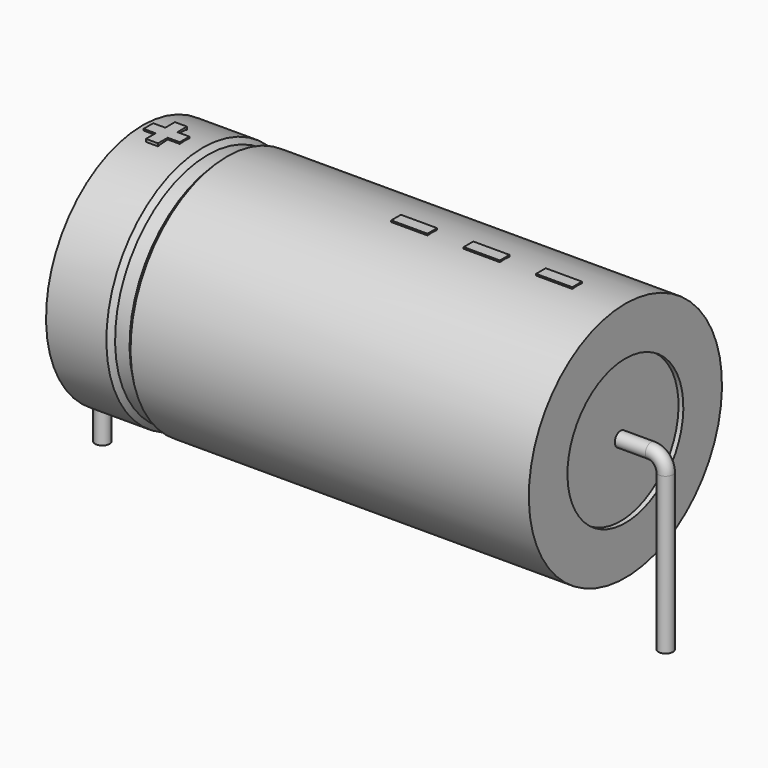
from build123d import *

# Parameters (mm, degrees)
SKETCH_R    = 0.45
SKETCH004_W = 2.25
SKETCH004_H = 0.75
PAD_DEPTH   = 7.575


with BuildPart() as sweep_body:
    # Sweep: sweep along a path in Sketch001
    with BuildLine(Plane.XZ) as sweep_path:
        Line((0, -3), (0, 6.7))
        ThreePointArc((0, 6.7), (0.263601, 7.336393), (0.899991, 7.6))
        Line((0.899991, 7.6), (34.1, 7.6))
        ThreePointArc((34.1, 7.6), (34.736396, 7.336396), (35, 6.7))
        Line((35, 6.7), (35, -3))
    # Sketch → Sweep (sweep)
    with BuildSketch(Plane.XY.offset(-2)):
        Circle(SKETCH_R)
    sweep(path=sweep_path.line)


with BuildPart() as revolution:
    # Sketch002 → Revolution (revolve)
    with BuildSketch(Plane.XZ):
        Polygon((2.5, 15.1), (2.5, 12.1), (32.5, 12.1), (32.5, 15.1), (7.75, 15.1), (7.45, 14.8), (6.55, 14.8), (6.25, 15.1), align=None)
    revolve(axis=Axis((6.97588, 0, 7.6), (1, 0, 0)))


with BuildPart() as revolution001:
    # Sketch003 → Revolution001 (revolve)
    with BuildSketch(Plane.XZ):
        Polygon((2.8, 14.8), (4.3, 14.8), (4.3, 8.35), (30.7, 8.35), (30.7, 14.8), (32.2, 14.8), (32.2, 7.6), (2.8, 7.6), align=None)
    revolve(axis=Axis((6.97588, 0, 7.6), (1, 0, 0)))


with BuildPart() as pad:
    # Sketch004 → Pad (new body)
    with BuildSketch(Plane.XY.offset(7.6)):
        with Locations((28.375, 0)):
            Rectangle(SKETCH004_W, SKETCH004_H)
        with Locations((23.875, 0)):
            Rectangle(SKETCH004_W, SKETCH004_H)
        with Locations((19.375, 0)):
            Rectangle(SKETCH004_W, SKETCH004_H)
        Polygon((3.61, 0.375), (2.86, 0.375), (2.86, -0.375), (3.61, -0.375), (3.61, -1.125), (4.36, -1.125), (4.36, -0.375), (5.11, -0.375), (5.11, 0.375), (4.36, 0.375), (4.36, 1.125), (3.61, 1.125), align=None)
    extrude(amount=PAD_DEPTH)


solid = Compound([sweep_body.part, revolution.part, revolution001.part, pad.part])
